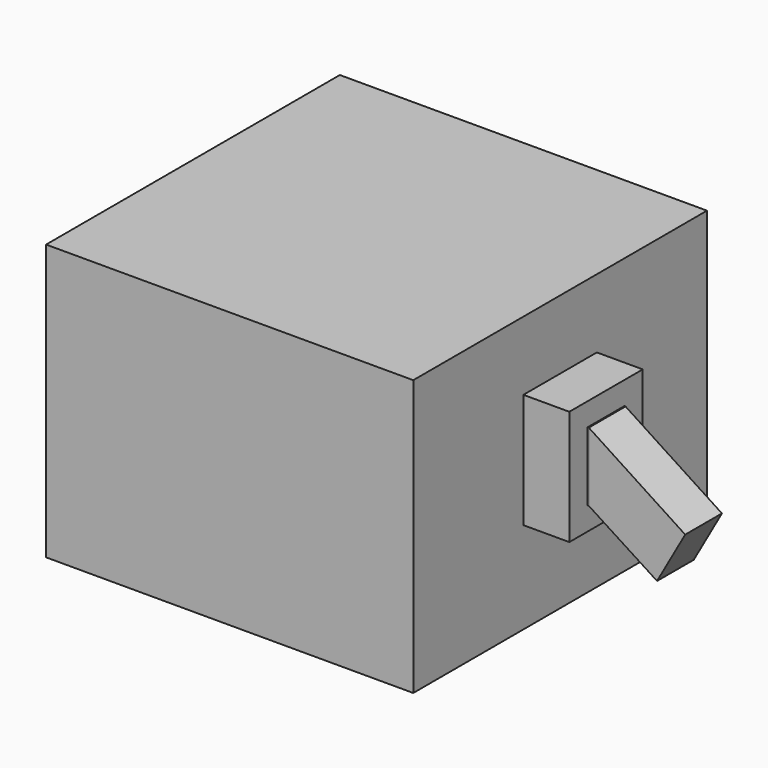
from build123d import *

# Parameters (mm, degrees)
F0_W     = 32
F0_H     = 24
F1_DEPTH = 32
F2_W     = 8
F2_H     = 10
F3_DEPTH = 4
F4_W     = 4
F4_H     = 6
F5_DEPTH = 0.1
F7_DEPTH = 4


with BuildPart() as f1:
    # F0 (on Right) → F1 (new body)
    with BuildSketch(Plane.YZ):
        Rectangle(F0_W, F0_H)
    extrude(amount=F1_DEPTH)


with BuildPart() as f3:
    # F2 (on face) → F3 (new body)
    with BuildSketch(Plane.YZ.offset(32)):
        with Locations((0, 1)):
            Rectangle(F2_W, F2_H)
    extrude(amount=F3_DEPTH)

    # F4 (on face) → F5 (join)
    with BuildSketch(Plane.YZ.offset(36)):
        with Locations((0, 1)):
            Rectangle(F4_W, F4_H)
    extrude(amount=F5_DEPTH)


with BuildPart() as f7:
    # F6 (on face) → F7 (new body)
    with BuildSketch(Plane.XZ.offset(2)):
        Polygon((44.500296, -1.47318), (36.1, 4), (36.1, -2), (42.047321, -5.830254), align=None)
    extrude(amount=-F7_DEPTH)


solid = Compound([f1.part, f3.part, f7.part])
